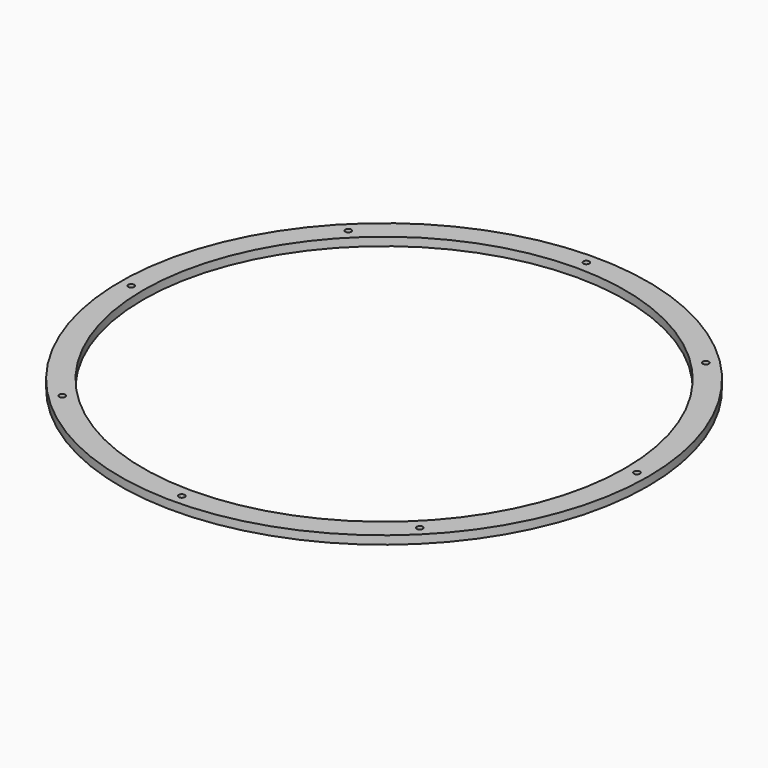
from build123d import *

# Parameters (mm, degrees)
SKETCH001_R       = 95
SKETCH001_R_2     = 86.75
PAD_DEPTH         = 3
SKETCH_R          = 1.1
POCKET_DEPTH      = 3.001
POCKET_DEPTH_BACK = 0.001


with BuildPart() as part:
    # Sketch001 → Pad (new body)
    with BuildSketch(Plane(origin=(0, 0, 0), x_dir=(1, 0, 0), z_dir=(0, 0, -1))):
        Circle(SKETCH001_R)
        Circle(SKETCH001_R_2, mode=Mode.SUBTRACT)
    extrude(amount=PAD_DEPTH)

    # Sketch → Pocket (cut, two sides)
    with BuildSketch(Plane.XY) as pocket_sk:
        with Locations((64.346717, 64.346717)):
            Circle(SKETCH_R)
        with Locations((0, 91)):
            Circle(SKETCH_R)
        with Locations((91, 0)):
            Circle(SKETCH_R)
        with Locations((64.346717, -64.346717)):
            Circle(SKETCH_R)
        with Locations((0, -91)):
            Circle(SKETCH_R)
        with Locations((-91, 0)):
            Circle(SKETCH_R)
        with Locations((-64.346717, -64.346717)):
            Circle(SKETCH_R)
        with Locations((-64.346717, 64.346717)):
            Circle(SKETCH_R)
    extrude(amount=-POCKET_DEPTH, mode=Mode.SUBTRACT)
    extrude(pocket_sk.sketch, amount=POCKET_DEPTH_BACK, mode=Mode.SUBTRACT)


solid = part.part
